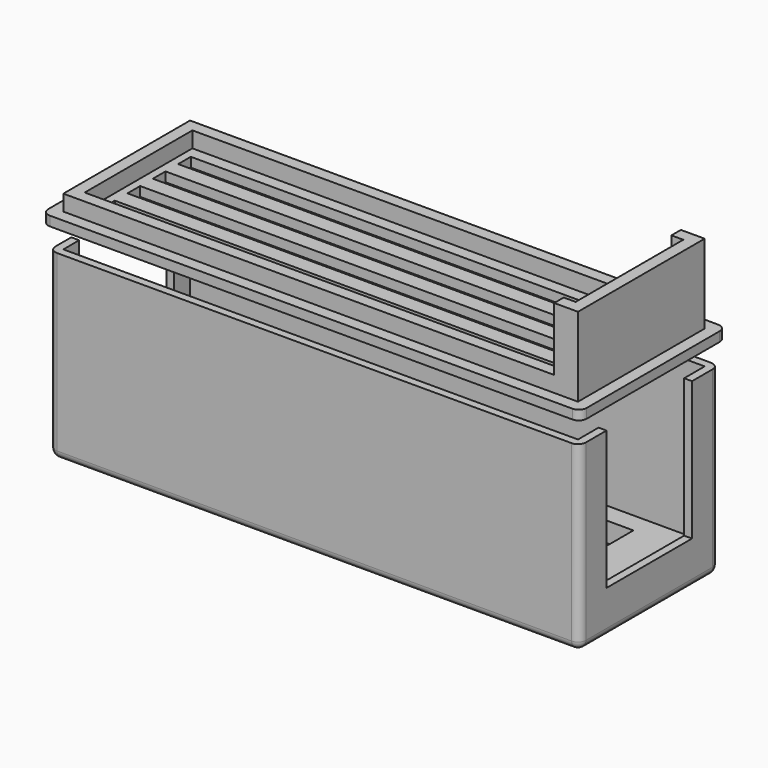
from build123d import *

# Parameters (mm, degrees)
BOX001_W      = 10
BOX001_H      = 15
BOX001_DEPTH  = 25
BOX002_W      = 10
BOX002_H      = 13.5
BOX002_DEPTH  = 24.5
BOX_W         = 65
BOX_H         = 20
BOX_DEPTH     = 22
THICKNESS_T   = 1
PAD_DEPTH     = 2.5
BOX006_W      = 60
BOX006_H      = 2
BOX006_DEPTH  = 5
ARRAY_Y_COUNT = 4
ARRAY_Y_PITCH = 4
BOX003_W      = 68
BOX003_H      = 23
BOX003_DEPTH  = 1.2
FILLET_R      = 1
BOX009_W      = 62
BOX009_H      = 20
BOX009_DEPTH  = 8
BOX005_W      = 62
BOX005_H      = 17
BOX005_DEPTH  = 12
BOX004_W      = 65
BOX004_H      = 20
BOX004_DEPTH  = 10


with BuildPart() as cable_hole:
    # Box001 → Box001 (new body)
    with BuildSketch(Plane(origin=(-5, 2.5, 0), x_dir=(1, 0, 0), z_dir=(0, 0, 1))):
        with Locations((5, 7.5)):
            Rectangle(BOX001_W, BOX001_H)
    extrude(amount=BOX001_DEPTH)


with BuildPart() as usb_hole:
    # Box002 → Box002 (new body)
    with BuildSketch(Plane(origin=(60, 3.25, 4.5), x_dir=(1, 0, 0), z_dir=(0, 0, 1))):
        with Locations((5, 6.75)):
            Rectangle(BOX002_W, BOX002_H)
    extrude(amount=BOX002_DEPTH)


with BuildPart() as caja:
    # Box → Box (new body)
    with BuildSketch(Plane.XY):
        with Locations((32.5, 10)):
            Rectangle(BOX_W, BOX_H)
    extrude(amount=BOX_DEPTH)

    # Thickness
    thickness_openings = [caja.faces().sort_by_distance(p)[0] for p in [
        (32.5, 10, 22),
    ]]
    offset(amount=THICKNESS_T, openings=thickness_openings)

    # Sketch (on Face5 of BaseFeature) → Pad (new body)
    with BuildSketch(Plane.XY):
        Polygon((65, 20), (0, 20), (0, 17.5), (58, 17.5), (58, 2.5), (0, 2.5), (0, 0), (65, 0), align=None)
    extrude(amount=PAD_DEPTH)

    # Cut: cut usb_hole
    add(usb_hole.part, mode=Mode.SUBTRACT)

    # Cut004: cut cable_hole
    add(cable_hole.part, mode=Mode.SUBTRACT)


with BuildPart() as array:
    # Box006 → Box006 (new body)
    with BuildSketch(Plane(origin=(2.5, 3, 24), x_dir=(1, 0, 0), z_dir=(0, 0, 1))):
        with Locations((30, 1)):
            Rectangle(BOX006_W, BOX006_H)
    extrude(amount=BOX006_DEPTH)

    # Array Y: Array ×4


with BuildPart() as array_1:
    add(array.part)
    with Locations(*[(0, i * ARRAY_Y_PITCH, 0) for i in range(1, ARRAY_Y_COUNT)]):
        add(array.part)


with BuildPart() as fillet_body:
    # Box003 → Box003 (new body)
    with BuildSketch(Plane(origin=(-1.5, -1.5, 25), x_dir=(1, 0, 0), z_dir=(0, 0, 1))):
        with Locations((34, 11.5)):
            Rectangle(BOX003_W, BOX003_H)
    extrude(amount=BOX003_DEPTH)

    # Fillet
    fillet_edges = [fillet_body.edges().sort_by_distance(p)[0] for p in [
        (-1.5, -1.5, 25.6),
        (-1.5, 21.5, 25.6),
        (66.5, -1.5, 25.6),
        (66.5, 21.5, 25.6),
    ]]
    fillet(fillet_edges, radius=FILLET_R)


with BuildPart() as cubo007:
    # Box009 → Box009 (new body)
    with BuildSketch(Plane.XY.offset(29)):
        with Locations((31, 10)):
            Rectangle(BOX009_W, BOX009_H)
    extrude(amount=BOX009_DEPTH)


with BuildPart() as cubo003:
    # Box005 → Box005 (new body)
    with BuildSketch(Plane(origin=(1.5, 1.5, 27), x_dir=(1, 0, 0), z_dir=(0, 0, 1))):
        with Locations((31, 8.5)):
            Rectangle(BOX005_W, BOX005_H)
    extrude(amount=BOX005_DEPTH)


with BuildPart() as tapa:
    # Box004 → Box004 (new body)
    with BuildSketch(Plane.XY.offset(27)):
        with Locations((32.5, 10)):
            Rectangle(BOX004_W, BOX004_H)
    extrude(amount=BOX004_DEPTH)

    # Cut005: cut Cubo003
    add(cubo003.part, mode=Mode.SUBTRACT)

    # Cut006: cut Cubo007
    add(cubo007.part, mode=Mode.SUBTRACT)


with BuildPart() as tapa_1:
    # Cut006 placement: moved
    add(tapa.part.moved(Location((0, 0, -0.8))))

    # Fusion: union Fillet body
    add(fillet_body.part)

    # Cut007: cut Array
    add(array_1.part, mode=Mode.SUBTRACT)


solid = Compound([caja.part, tapa_1.part])
